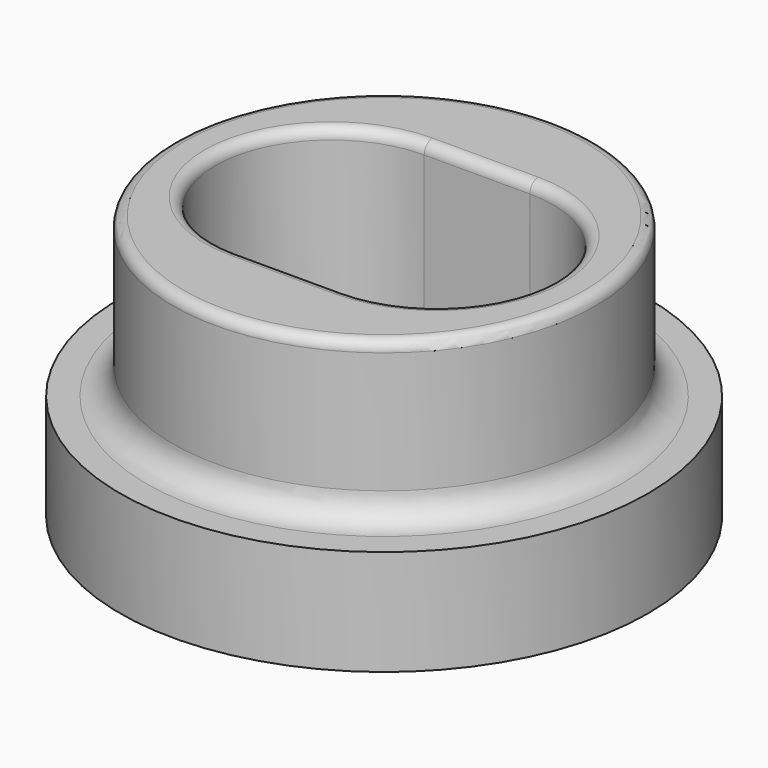
from build123d import *

# Parameters (mm, degrees)
SKETCH_R        = 5
PAD_DEPTH       = 2
SKETCH001_R     = 4
PAD001_DEPTH    = 3
POCKET_DEPTH    = 3
SKETCH003_R     = 0.55
POCKET001_DEPTH = 5.001
FILLET_R        = 0.5
FILLET001_R     = 0.5
FILLET002_R     = 0.2


with BuildPart() as part:
    # Sketch → Pad (new body)
    with BuildSketch(Plane.XY):
        Circle(SKETCH_R)
    extrude(amount=PAD_DEPTH)

    # Sketch001 (on Face3 of Pad) → Pad001 (join)
    with BuildSketch(Plane.XY.offset(2)):
        Circle(SKETCH001_R)
    extrude(amount=PAD001_DEPTH)

    # Sketch002 (on Face5 of Pad001) → Pocket (cut)
    with BuildSketch(Plane.XY.offset(5)):
        with BuildLine():
            ThreePointArc((-1, 2.2), (-3.2, 0), (-1, -2.2))
            Line((-1, -2.2), (1, -2.2))
            ThreePointArc((1, -2.2), (3.2, 0), (1, 2.2))
            Line((-1, 2.2), (1, 2.2))
        make_face()
    extrude(amount=-POCKET_DEPTH, mode=Mode.SUBTRACT)

    # Sketch003 (on Face5 of Pocket) → Pocket001 (cut, through all)
    with BuildSketch(Plane.XY.offset(5)):
        with Locations((-1.5, 0)):
            Circle(SKETCH003_R)
        with Locations((1.5, 0)):
            Circle(SKETCH003_R)
    extrude(amount=-POCKET001_DEPTH, mode=Mode.SUBTRACT)

    # Fillet
    fillet_edges = [part.edges().sort_by_distance(p)[0] for p in [
        (-4, 0, 2),
    ]]
    fillet(fillet_edges, radius=FILLET_R)

    # Fillet001
    fillet001_edges = [part.edges().sort_by_distance(p)[0] for p in [
        (-2.05, 0, 2),
        (0.95, 0, 2),
    ]]
    fillet(fillet001_edges, radius=FILLET001_R)

    # Fillet002
    fillet002_edges = [part.edges().sort_by_distance(p)[0] for p in [
        (-4, 0, 5),
        (-3.2, 0, 5),
        (0, -2.2, 5),
        (3.2, 0, 5),
        (0, 2.2, 5),
    ]]
    fillet(fillet002_edges, radius=FILLET002_R)


solid = part.part
